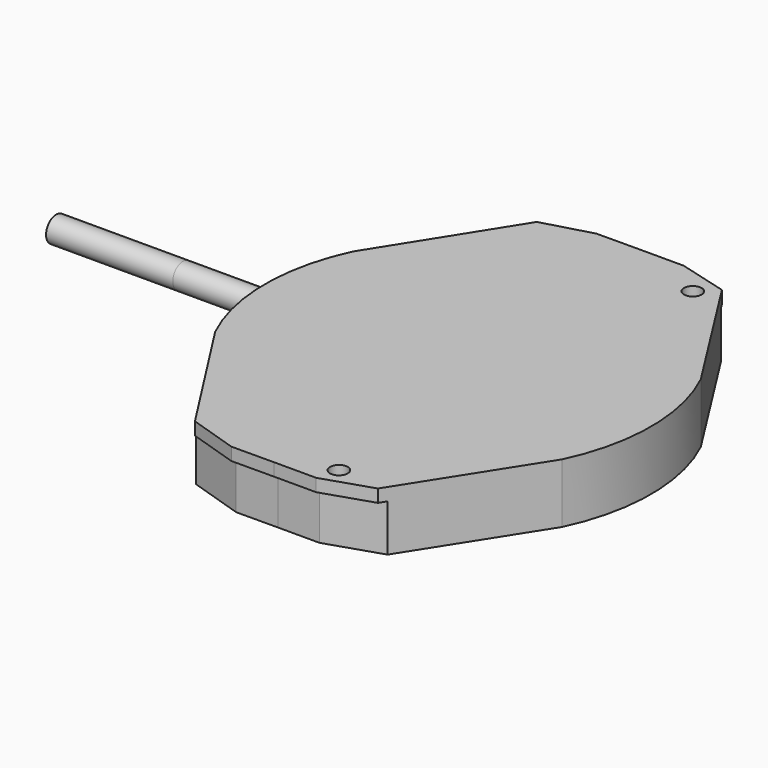
from build123d import *

# Parameters (mm, degrees)
F1_DEPTH      = 2.35
F2_R          = 0.5
F3_DEPTH      = 5
F3_DEPTH_BACK = 5
F5_DEPTH      = 1.85
F6_R          = 0.35
F7_DEPTH      = 1.6


with BuildPart() as f1:
    # F0 (on Top) → F1 (new body)
    with BuildSketch(Plane.XY):
        with BuildLine():
            Line((12.5348381698, 18.1987490505), (10.8179235831, 18.1987490505))
            Line((10.8179235831, 18.1987490505), (9.1010301327, 18.1902297699))
            Line((9.1010301327, 18.1902297699), (7.1743787806, 17.653559883))
            Line((7.1743787806, 17.653559883), (3.98264217, 12.5729282876))
            ThreePointArc((3.98264217, 12.5729282876), (3.2243689245, 9.1481475257), (4.0165917388, 5.7310603752))
            Line((4.0165917388, 5.7310603752), (7.2585904547, 0.6823531817))
            Line((7.2585904547, 0.6823531817), (9.1909860265, 0.0613885547))
            Line((9.1909860265, 0.0613885547), (10.8629018068, 0.0696846546))
            Line((10.8629018068, 0.0696846546), (12.5348381698, 0.0696846546))
            Line((12.5348381698, 0.0696846546), (14.464128744, 0.7002301281))
            Line((14.464128744, 0.7002301281), (17.6810360095, 5.7649618728))
            ThreePointArc((17.6810360095, 5.7649618728), (18.4562935833, 9.1859379434), (17.6810360095, 12.606914014))
            Line((17.6810360095, 12.606914014), (14.464128744, 17.6716457586))
            Line((14.464128744, 17.6716457586), (12.5348381698, 18.1987490505))
        make_face()
    extrude(amount=F1_DEPTH)

    # F2 (on Right) → F3 (join, two sides)
    with BuildSketch(Plane.YZ) as f3_sk:
        with Locations((9.1614143501, 1.6)):
            Circle(F2_R)
    extrude(amount=F3_DEPTH)
    extrude(f3_sk.sketch, amount=-F3_DEPTH_BACK)

    # F4 (on face) → F5 (cut)
    with BuildSketch(Plane(origin=(0, 0, 0), x_dir=(1, 0, 0), z_dir=(0, 0, -1))):
        Polygon((7.2585904547, -0.6823531817), (7.0886202668, -0.9470447456), (9.2218469568, -0.2615441498), (10.8624056067, -0.2696846546), (12.5029844531, -0.2696846546), (14.6327834476, -0.9657618207), (14.464128744, -0.7002301281), (12.5348381698, -0.0696846546), (10.8629018068, -0.0696846546), (9.1909860265, -0.0613885547), align=None)
        Polygon((9.1288516348, -17.9903653589), (7.0162878227, -17.401909445), (7.1743787806, -17.653559883), (9.1010301327, -18.1902297699), (10.8179235831, -18.1987490505), (12.5348381698, -18.1987490505), (14.464128744, -17.6716457586), (14.623466438, -17.4207828614), (12.5080087317, -17.9987490505), (10.8184197833, -17.9987490505), align=None)
    extrude(amount=-F5_DEPTH, mode=Mode.SUBTRACT)

    # F6 (on face) → F7 (cut)
    with BuildSketch(Plane.XY.offset(2.35)):
        with Locations((12.7608353453, 0.9049560811)):
            Circle(F6_R)
        with Locations((13.8208036158, 17.0416355185)):
            Circle(F6_R)
    extrude(amount=-F7_DEPTH, mode=Mode.SUBTRACT)


solid = f1.part
